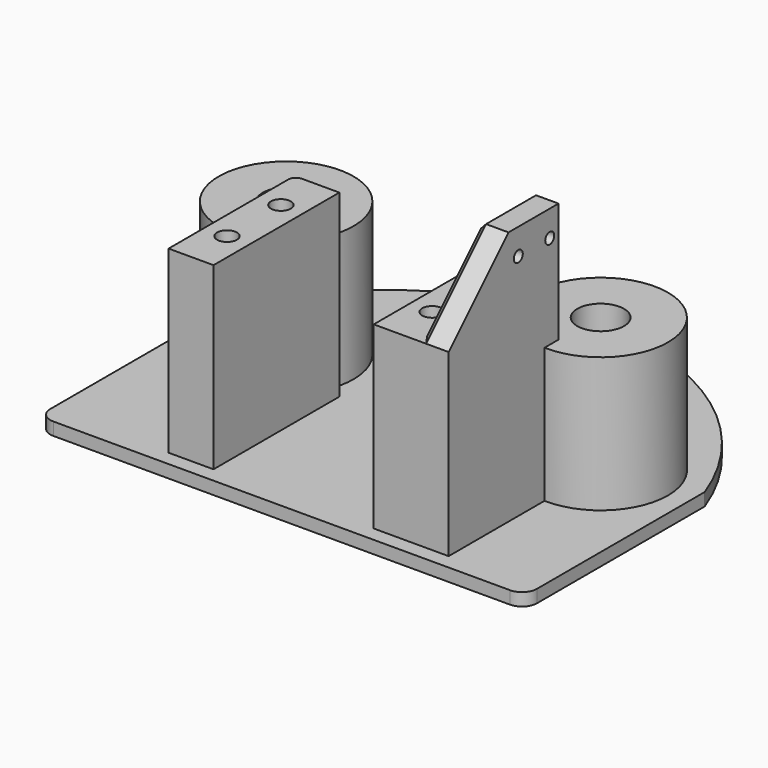
from build123d import *

# Parameters (mm, degrees)
PAD_DEPTH       = 3.4
FILLET_R        = 4
SKETCH001_R     = 18
SKETCH001_R_2   = 6.25
PAD001_DEPTH    = 36
SKETCH002_W     = 12
SKETCH002_H     = 42
SKETCH002_R     = 2.65
PAD002_DEPTH    = 48
FILLET002_R     = 2
SKETCH004_W     = 8
SKETCH004_H     = 36.680408
PAD010_DEPTH    = 68
CHAMFER_SIZE    = 20
CHAMFER001_SIZE = 2
SKETCH005_R     = 1.5
POCKET_DEPTH    = 10


with BuildPart() as part:
    # Sketch → Pad (new body)
    with BuildSketch(Plane.XY):
        with BuildLine():
            Line((-65, 0), (-65, -60))
            Line((-65, -60), (65, -60))
            Line((65, -60), (65, 0))
            ThreePointArc((65, 0), (0, 45.409517), (-65, 0))
        make_face()
    extrude(amount=PAD_DEPTH)

    # Fillet
    fillet_edges = [part.edges().sort_by_distance(p)[0] for p in [
        (65, -60, 1.7),
        (-65, -60, 1.7),
    ]]
    fillet(fillet_edges, radius=FILLET_R)

    # Sketch001 (on Face6 of Pad) → Pad001 (join)
    with BuildSketch(Plane.XY.offset(3.4)):
        with Locations((42, -6)):
            Circle(SKETCH001_R)
        with Locations((42, -6)):
            Circle(SKETCH001_R_2, mode=Mode.SUBTRACT)
    pad001 = extrude(amount=PAD001_DEPTH)

    # Mirrored: Pad001 across YZ
    add(pad001.mirror(Plane.YZ))

    # Sketch002 (on Face5 of Mirrored) → Pad002 (join)
    with BuildSketch(Plane.XY.offset(3.4)):
        with Locations((-27.4, -35)):
            Rectangle(SKETCH002_W, SKETCH002_H)
        with Locations((-27.4, -26)):
            Circle(SKETCH002_R, mode=Mode.SUBTRACT)
        with Locations((-27.4, -44)):
            Circle(SKETCH002_R, mode=Mode.SUBTRACT)
    pad002 = extrude(amount=PAD002_DEPTH)

    # Mirrored001: Pad002 across Sketch002 V_Axis
    add(pad002.mirror(Plane(origin=(0, 0, 3.4), x_dir=(0, 0, 1), z_dir=(1, 0, 0))))

    # Fillet002
    fillet002_edges = [part.edges().sort_by_distance(p)[0] for p in [
        (33.4, -14, 45.4),
        (-33.4, -14, 45.4),
    ]]
    fillet(fillet002_edges, radius=FILLET002_R)

    # Sketch004 (on Face6 of Fillet002) → Pad010 (join)
    with BuildSketch(Plane.XY.offset(3.4)):
        with Locations((37.4, -37.659796)):
            Rectangle(SKETCH004_W, SKETCH004_H)
    extrude(amount=PAD010_DEPTH)

    # Chamfer
    chamfer_edges = [part.edges().sort_by_distance(p)[0] for p in [
        (37.4, -56, 71.4),
    ]]
    chamfer(chamfer_edges, length=CHAMFER_SIZE)

    # Chamfer001
    chamfer001_edges = [part.edges().sort_by_distance(p)[0] for p in [
        (33.4, -46, 61.4),
        (33.4, -27.659796, 71.4),
    ]]
    chamfer(chamfer001_edges, length=CHAMFER001_SIZE)

    # Sketch005 (on Face4 of Chamfer001) → Pocket (cut)
    with BuildSketch(Plane.YZ.offset(41.4)):
        with Locations((-32.7462, 64.451439)):
            Circle(SKETCH005_R)
        with Locations((-22.2462, 64.451439)):
            Circle(SKETCH005_R)
    extrude(amount=-POCKET_DEPTH, mode=Mode.SUBTRACT)


solid = part.part
